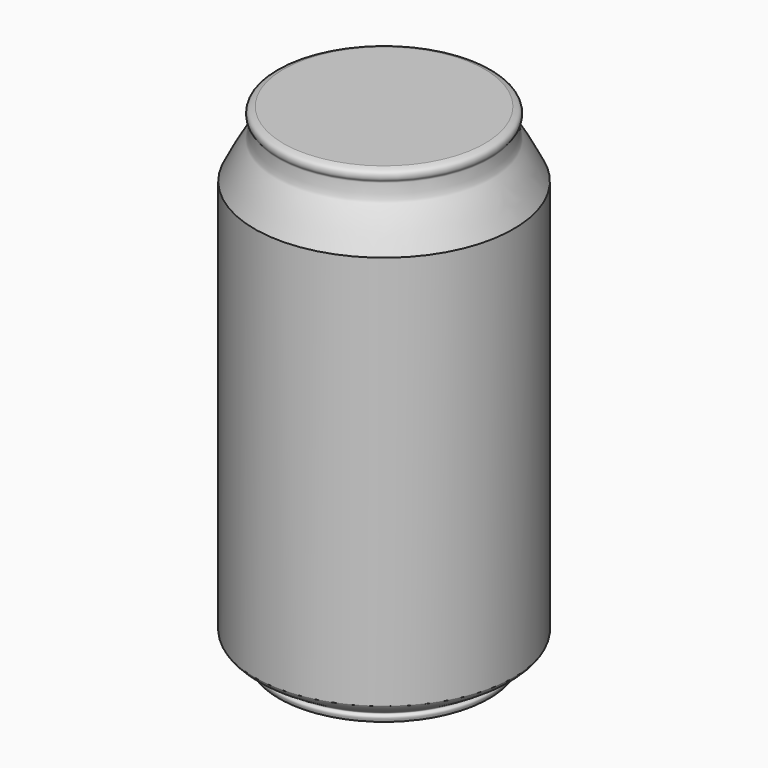
from build123d import *


with BuildPart() as f1:
    # F0 (on Front) → F1 (revolve)
    with BuildSketch(Plane.XZ):
        with BuildLine():
            add(Edge.make_bspline(
                [(0, -141.5700018406), (-4.310276135, -141.8568734413), (-13.82581361, -142.4901826266), (-32.1815921459, -140.3698724466), (-44.5525534346, -138.5034772972), (-44.9428839791, -137.0572258914), (-45.4216446896, -135.5287564792), (-43.4145274251, -134.46894545), (-49.2409474079, -131.6913323877), (-54.0093873166, -128.2997911904), (-54.7539558818, -126.9569224585), (-55.0136328675, -126.4885812998)],
                knots=[0, 0, 0, 0, 0.1764866365, 0.3896189365, 0.5489367395, 0.5982835637, 0.6542840106, 0.7052907178, 0.8145689697, 0.9353287618, 1, 1, 1, 1], degree=3))
            Line((0, -141.5700018406), (0, 69.0992549062))
            Line((0, 69.0992549062), (-42.7340641618, 69.0992549062))
            add(Edge.make_bspline(
                [(-55.0136328675, 41.1630161107), (-53.3369324441, 44.4505201339), (-50.3957846409, 50.2172242516), (-47.1485214837, 55.7242118796), (-45.3558626167, 57.4201494125), (-44.7872068574, 61.5223822883), (-44.4334417173, 64.3669494771), (-45.8275124597, 65.1758792191), (-45.8940515937, 67.4953671361), (-44.7158751634, 68.5407701839), (-43.4321416466, 68.902533014), (-42.7340641618, 69.0992549062)],
                knots=[0, 0, 0, 0, 0.2022525193, 0.3547768846, 0.4494785806, 0.5749136953, 0.6762206963, 0.7480710246, 0.8361414968, 0.9108958906, 1, 1, 1, 1], degree=3))
            Line((-55.0136328675, 41.1630161107), (-55.0136328675, -126.4885812998))
        make_face()
    revolve(axis=Axis((0, 0, -36.2353734672), (0, 0, -1)))


solid = f1.part
